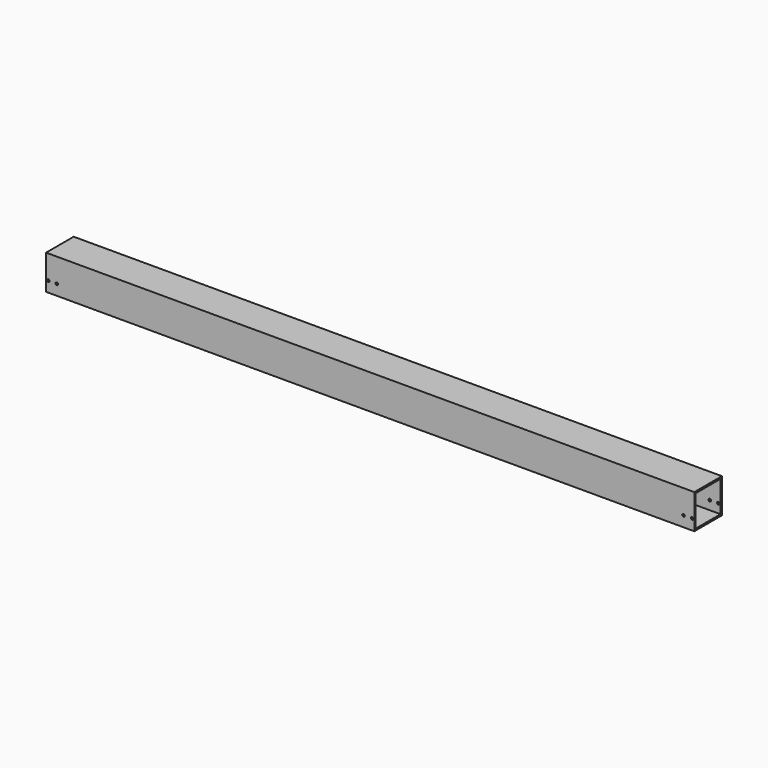
from build123d import *

# Parameters (mm, degrees)
F0_W     = 40
F0_H     = 40
F0_W_2   = 36
F0_H_2   = 36
F1_DEPTH = 751
F3_D     = 3
F3_DEPTH = 50


with BuildPart() as f1:
    # F0 (on Right) → F1 (new body)
    with BuildSketch(Plane.YZ):
        Rectangle(F0_W, F0_H)
        Rectangle(F0_W_2, F0_H_2, mode=Mode.SUBTRACT)
    extrude(amount=F1_DEPTH)

    # F3
    with Locations(Plane(origin=(0, 20, 0), x_dir=(-1, 0, 0), z_dir=(0, 1, 0))):
        with Locations((-748.5, -7.73), (-738.5, -7.73), (-2.5, -7.73), (-12.5, -7.73)):
            Hole(F3_D / 2, depth=F3_DEPTH)


solid = f1.part
